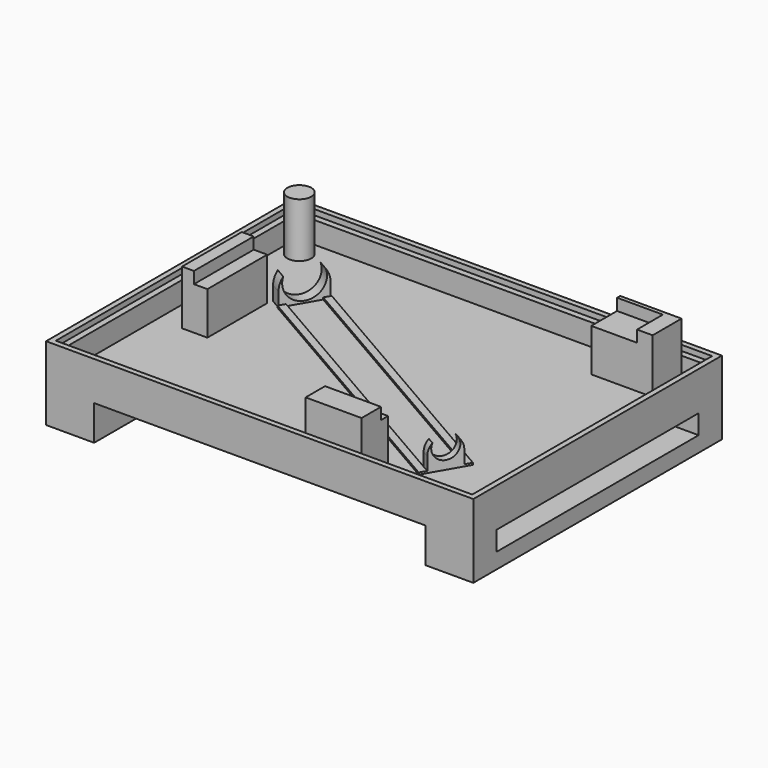
from build123d import *

# Parameters (mm, degrees)
SKETCH_W                = 110
SKETCH_H                = 80
PAD_DEPTH               = 10
SKETCH001_W             = 104
SKETCH001_H             = 74
POCKET_DEPTH            = 7
SKETCH007_R             = 3.0908475769
SKETCH007_W             = 6.526607
SKETCH007_H             = 19.236304
SKETCH007_W_2           = 14.401427
SKETCH007_H_2           = 8.523968
SKETCH007_W_3           = 15.801241
SKETCH007_H_3           = 9.312899
PAD004_DEPTH            = 14
SKETCH008_W             = 85.5
SKETCH008_H             = 66.75
POCKET002_DEPTH         = 3
SKETCH009_W             = 107.2000000001
SKETCH009_H             = 77.2
SKETCH009_W_2           = 104
SKETCH009_H_2           = 74
POCKET003_DEPTH         = 1.4
SKETCH010_W             = 12.3775407079
SKETCH010_H             = 80
PAD005_DEPTH            = 9
SKETCH011_W             = 65
SKETCH011_H             = 5
POCKET004_DEPTH         = 110.001
PAD001_DEPTH            = 3
PAD002_DEPTH            = 78
SKETCH005_W             = 11.7
SKETCH005_H             = 1.5
PAD003_DEPTH            = 78
SKETCH006_W             = 8
SKETCH006_H             = 76
POCKET001_DEPTH         = 8
BODY001_PLACEMENT_ANGLE = 30


with BuildPart() as corps:
    # Sketch → Pad (new body)
    with BuildSketch(Plane.XY):
        Rectangle(SKETCH_W, SKETCH_H)
    extrude(amount=PAD_DEPTH)

    # Sketch001 (on Face6 of Pad) → Pocket (cut)
    with BuildSketch(Plane.XY.offset(10)):
        Rectangle(SKETCH001_W, SKETCH001_H)
    extrude(amount=-POCKET_DEPTH, mode=Mode.SUBTRACT)

    # Sketch007 (on Face11 of Pocket) → Pad004 (join)
    with BuildSketch(Plane.XY.offset(3)):
        with Locations((-47.362976, 31.961269)):
            Circle(SKETCH007_R)
        with Locations((-42.3007605, 1.58069)):
            Rectangle(SKETCH007_W, SKETCH007_H)
        with Locations((16.6203045, -32.738016)):
            Rectangle(SKETCH007_W_2, SKETCH007_H_2)
        with Locations((39.1100115, 32.3435505)):
            Rectangle(SKETCH007_W_3, SKETCH007_H_3)
    extrude(amount=PAD004_DEPTH)

    # Sketch008 (on Face20 of Pad004) → Pocket002 (cut)
    with BuildSketch(Plane.XY.offset(17)):
        with Locations((0.25, 2.625)):
            Rectangle(SKETCH008_W, SKETCH008_H)
    extrude(amount=-POCKET002_DEPTH, mode=Mode.SUBTRACT)

    # Sketch009 (on Face5 of Pocket002) → Pocket003 (cut)
    with BuildSketch(Plane.XY.offset(10)):
        Rectangle(SKETCH009_W, SKETCH009_H)
        Rectangle(SKETCH009_W_2, SKETCH009_H_2, mode=Mode.SUBTRACT)
    extrude(amount=-POCKET003_DEPTH, mode=Mode.SUBTRACT)

    # Sketch010 (on Face4 of Pocket003) → Pad005 (join)
    with BuildSketch(Plane(origin=(0, 0, 0), x_dir=(1, 0, 0), z_dir=(0, 0, -1))):
        with Locations((-48.811229646, 0)):
            Rectangle(SKETCH010_W, SKETCH010_H)
        with Locations((48.811229646, 0)):
            Rectangle(SKETCH010_W, SKETCH010_H)
    extrude(amount=PAD005_DEPTH)

    # Sketch011 (on Face9 of Pad005) → Pocket004 (cut, through all)
    with BuildSketch(Plane(origin=(-55, 0, 0), x_dir=(0, -1, 0), z_dir=(-1, 0, 0))):
        with Locations((0, -2.5)):
            Rectangle(SKETCH011_W, SKETCH011_H)
    extrude(amount=-POCKET004_DEPTH, mode=Mode.SUBTRACT)


with BuildPart() as obj1:
    # Sketch002 → Pad001 (new body)
    with BuildSketch(Plane.YZ):
        with BuildLine():
            Line((-5.6347800042, 4.6129608961), (-5.6347800042, 0))
            Line((-5.6347800042, 0), (5.6347800042, 0))
            Line((5.6347800042, 0), (5.6347800042, 4.6129881532))
            ThreePointArc((5.6347800042, 4.6129881532), (5.3730599259, 6.3103309969), (4.6122120506, 7.85))
            ThreePointArc((-4.6122120506, 7.85), (0, 1.5), (4.6122120506, 7.85))
            ThreePointArc((-4.6122120506, 7.85), (-5.3730640311, 6.3103180014), (-5.6347800042, 4.6129608961))
        make_face()
    extrude(amount=PAD001_DEPTH)

    # Sketch003 (on Face8 of Pad001) → Pad002 (join)
    with BuildSketch(Plane.YZ.offset(3)):
        with BuildLine():
            ThreePointArc((-2.8800606427, 7.6258333333), (0, 3.2), (2.8800606427, 7.6258333333))
            ThreePointArc((4, 4.85), (3.7094637463, 6.3466224356), (2.8800606427, 7.6258333333))
            Line((4, 0), (4, 4.85))
            Line((-4, 0), (4, 0))
            Line((-4, 4.85), (-4, 0))
            ThreePointArc((-2.8800606427, 7.6258333333), (-3.7094637463, 6.3466224356), (-4, 4.85))
        make_face()
    extrude(amount=PAD002_DEPTH)

    # Sketch005 (on Face8 of Pad001) → Pad003 (join)
    with BuildSketch(Plane.YZ.offset(3)):
        with Locations((0, 0.75)):
            Rectangle(SKETCH005_W, SKETCH005_H)
    extrude(amount=PAD003_DEPTH)

    # Sketch006 (on Face16 of Pad002) → Pocket001 (cut)
    with BuildSketch(Plane.YX):
        with Locations((0, 41)):
            Rectangle(SKETCH006_W, SKETCH006_H)
    extrude(amount=-POCKET001_DEPTH, mode=Mode.SUBTRACT)


with BuildPart() as obj1_1:
    # Body001 placement: moved
    add(obj1.part.moved(Location((-35.8269532495, 17.488032759, 2))).rotate(Axis((-35.8269532495, 17.488032759, 2), (0, 0, -1)), BODY001_PLACEMENT_ANGLE))


solid = Compound([corps.part, obj1_1.part])
